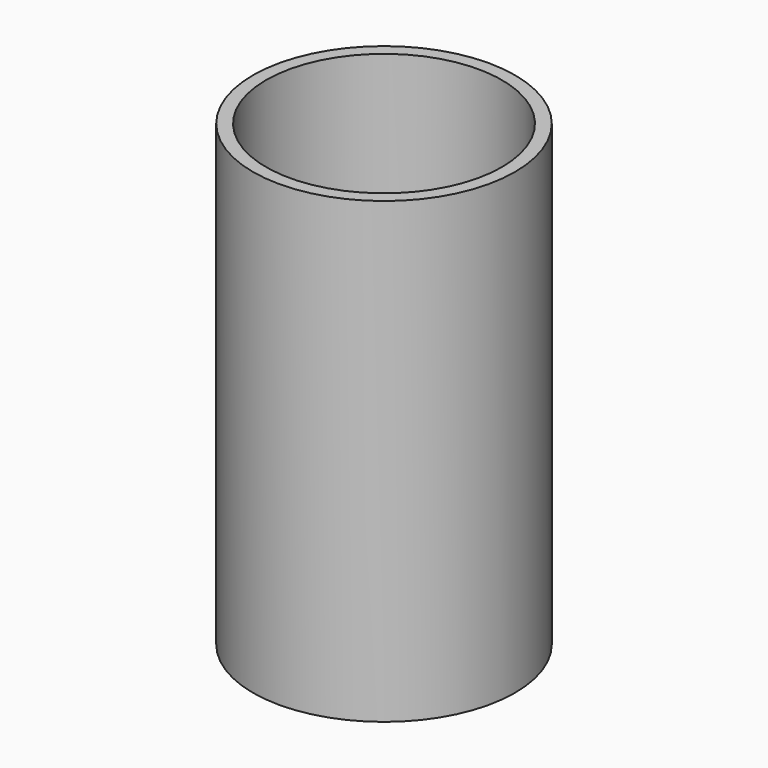
from build123d import *

# Parameters (mm, degrees)
SKETCH_R   = 50
SKETCH_R_2 = 45
PAD_DEPTH  = 175


with BuildPart() as part:
    # Sketch (on DatumPlane) → Pad (new body)
    with BuildSketch(Plane.XY):
        Circle(SKETCH_R)
        Circle(SKETCH_R_2, mode=Mode.SUBTRACT)
    extrude(amount=PAD_DEPTH)


solid = part.part
